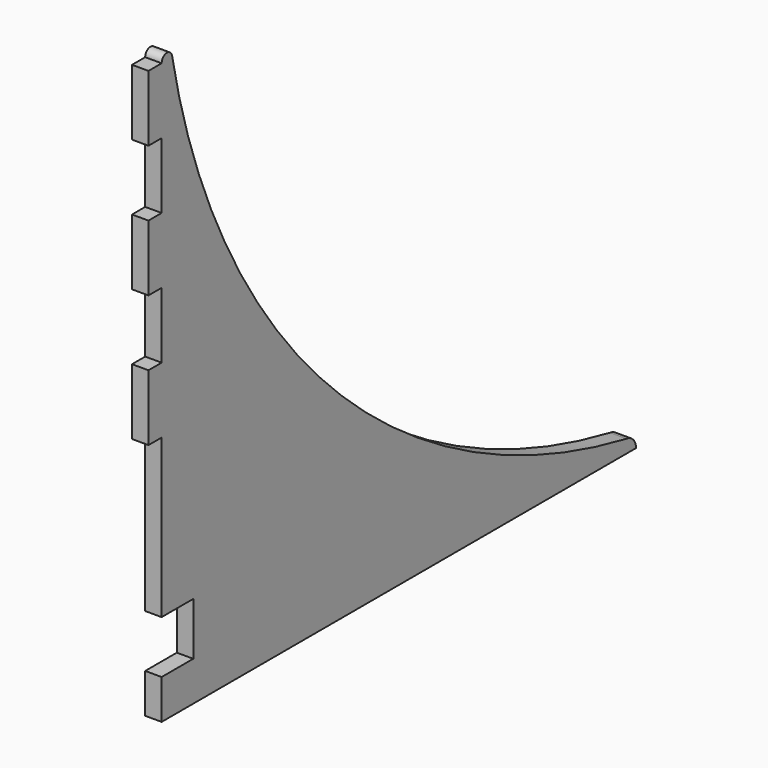
from build123d import *

# Parameters (mm, degrees)
F0_W     = 3.175
F0_H     = 12.7
F1_DEPTH = 3.175


with BuildPart() as f1:
    # F0 (on Right) → F1 (new body)
    with BuildSketch(Plane.YZ):
        with BuildLine():
            ThreePointArc((-45.94075, 38.34122), (-47.308793, 39.364207), (-48.457631, 38.1))
            Line((-48.457631, 38.1), (-48.457631, 25.4))
            Line((-48.457631, 25.4), (-48.457631, 12.7))
            Line((-48.457631, 12.7), (-48.457631, 0))
            Line((-48.457631, 0), (-48.457631, -12.7))
            Line((-48.457631, -12.7), (-48.457631, -25.4))
            Line((-48.457631, -25.4), (-48.457631, -55.88))
            Line((-48.457631, -55.88), (-40.837631, -55.88))
            Line((-40.837631, -55.88), (-40.837631, -66.04))
            Line((-40.837631, -66.04), (-48.457631, -66.04))
            Line((-48.457631, -66.04), (-48.457631, -73.66))
            Line((-48.457631, -73.66), (-40.837631, -73.66))
            Line((-40.837631, -73.66), (63.302369, -73.66))
            Line((63.302369, -73.66), (65.830783, -73.66))
            ThreePointArc((65.830783, -73.66), (65.17357, -71.959562), (63.543589, -71.143119))
            ThreePointArc((63.543589, -71.143119), (-7.961537, -33.163906), (-45.94075, 38.34122))
        make_face()
        with Locations((-50.045131, 31.75)):
            Rectangle(F0_W, F0_H)
        with Locations((-50.045131, 6.35)):
            Rectangle(F0_W, F0_H)
        with Locations((-50.045131, -19.05)):
            Rectangle(F0_W, F0_H)
    extrude(amount=F1_DEPTH)


solid = f1.part
